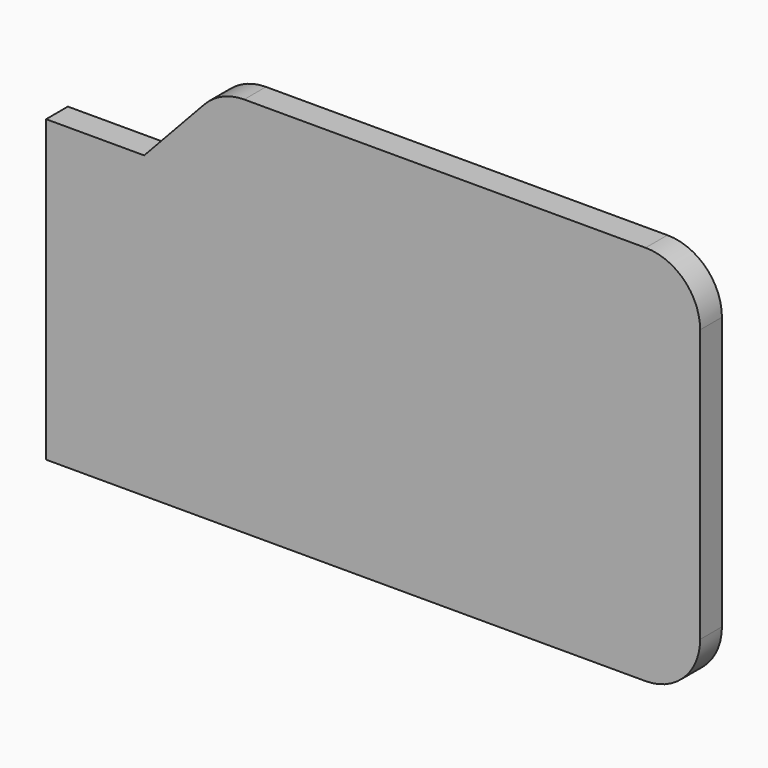
from build123d import *

# Parameters (mm, degrees)
F1_DEPTH = 25
F2_R     = 50


with BuildPart() as f1:
    # F0 (on Front) → F1 (new body)
    with BuildSketch(Plane.XZ):
        with BuildLine():
            Line((0, 275), (0, 0))
            Line((0, 0), (550, 0))
            ThreePointArc((550, 0), (585.355339, 14.644661), (600, 50))
            Line((600, 50), (600, 300))
            ThreePointArc((600, 300), (585.355339, 335.355339), (550, 350))
            Line((550, 350), (160, 350))
            Line((160, 350), (90, 275))
            Line((90, 275), (0, 275))
        make_face()
    extrude(amount=F1_DEPTH)

    # F2
    f2_edges = [f1.edges().sort_by_distance(p)[0] for p in [
        (160, -12.5, 350),
    ]]
    fillet(f2_edges, radius=F2_R)


solid = f1.part
